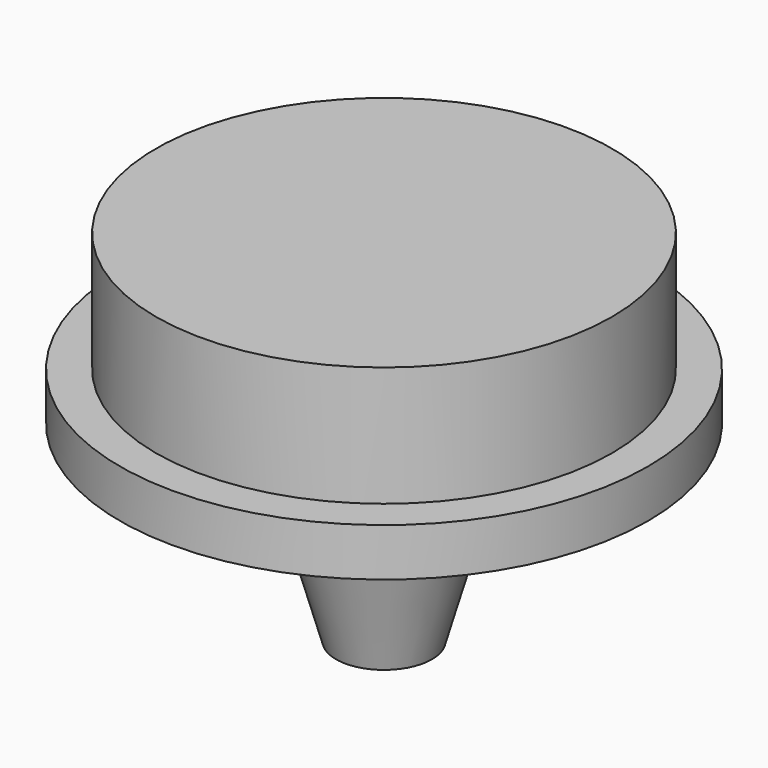
from build123d import *

# Parameters (mm, degrees)
F0_R     = 11
F0_R_2   = 9.5
F0_R_3   = 4
F0_W     = 1.3
F0_H     = 2
F1_DEPTH = 2
F2_DEPTH = 5
F3_DEPTH = 10
F4_SIZE2 = 2
F4_SIZE  = 7


with BuildPart() as f1:
    # F0 (on Top) → F1 (new body)
    with BuildSketch(Plane.XY):
        Circle(F0_R)
        Circle(F0_R_2, mode=Mode.SUBTRACT)
        Circle(F0_R_2)
        Circle(F0_R_3, mode=Mode.SUBTRACT)
        Circle(F0_R_3)
        Rectangle(F0_W, F0_H, mode=Mode.SUBTRACT)
        Rectangle(F0_W, F0_H)
    extrude(amount=-F1_DEPTH)

    # F0 (on Top) → F2 (join)
    with BuildSketch(Plane.XY):
        Circle(F0_R_2)
        Circle(F0_R_3, mode=Mode.SUBTRACT)
        Circle(F0_R_3)
        Rectangle(F0_W, F0_H, mode=Mode.SUBTRACT)
        Rectangle(F0_W, F0_H)
    extrude(amount=F2_DEPTH)

    # F0 (on Top) → F3 (join)
    with BuildSketch(Plane.XY):
        Circle(F0_R_3)
        Rectangle(F0_W, F0_H, mode=Mode.SUBTRACT)
    extrude(amount=-F3_DEPTH)

    # F4
    f4_edges = [f1.edges().sort_by_distance(p)[0] for p in [
        (-4, 0, -10),
    ]]
    chamfer(f4_edges, length=F4_SIZE, length2=F4_SIZE2)


solid = f1.part
